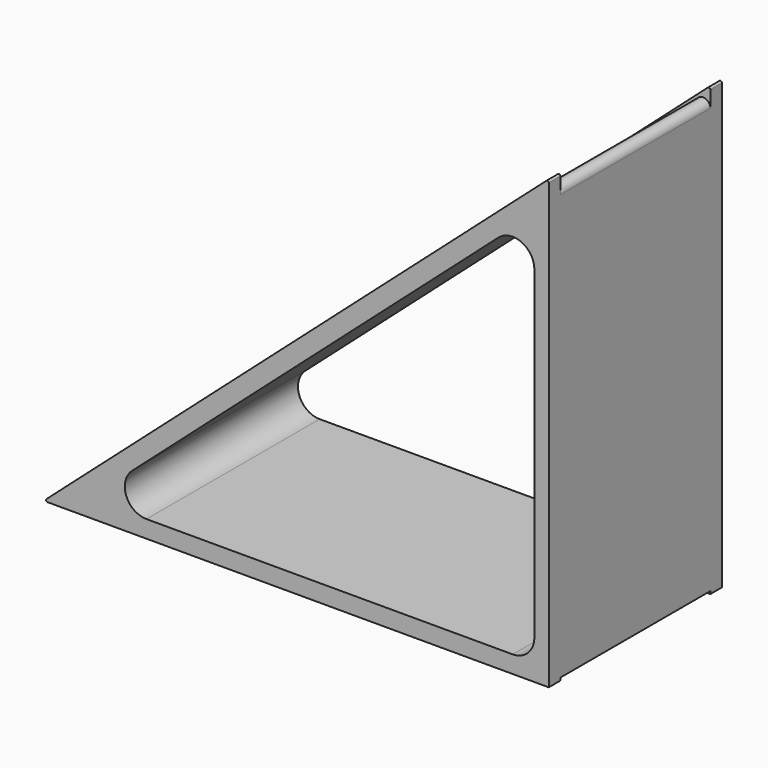
from build123d import *

# Parameters (mm, degrees)
PAD001_DEPTH    = 15
SKETCH003_W     = 93.5093578205
SKETCH003_H     = 26
POCKET_DEPTH    = 0.37
SKETCH004_W     = 69.441960284
SKETCH004_H     = 26
POCKET001_DEPTH = 0.37
FILLET002002_R  = 3
FILLET002003_R  = 0.2
FILLET002004_R  = 1
FILLET002005_R  = 0.2
FILLET002006_R  = 1


with BuildPart() as part:
    # Sketch002 → Pad001 (new body, symmetric)
    with BuildSketch(Plane.XZ):
        Polygon((0, 0), (-70, 0), (0, 62), align=None)
        Polygon((-2, 2.4), (-63.6706055037, 2.4), (-2, 57.0225363033), align=None, mode=Mode.SUBTRACT)
    extrude(amount=PAD001_DEPTH, both=True)

    # Sketch003 (on Face2 of Pad001) → Pocket (cut)
    with BuildSketch(Plane(origin=(-30.7731015554, 0, 34.7438243367), x_dir=(-0.7485881802, 0, -0.6630352453), z_dir=(-0.6630352453, 0, 0.7485881802))):
        with Locations((5.6464937019, 0)):
            Rectangle(SKETCH003_W, SKETCH003_H)
    extrude(amount=-POCKET_DEPTH, mode=Mode.SUBTRACT)

    # Sketch004 (on Face1 of Pocket) → Pocket001 (cut)
    with BuildSketch(Plane(origin=(0, 0, 0), x_dir=(1, 0, 0), z_dir=(0, 0, -1))):
        with Locations((-34.720980142, 0)):
            Rectangle(SKETCH004_W, SKETCH004_H)
    extrude(amount=-POCKET001_DEPTH, mode=Mode.SUBTRACT)

    # Fillet002002
    fillet002002_edges = [part.edges().sort_by_distance(p)[0] for p in [
        (-2, 0, 2.4),
        (-2, 0, 57.022536),
        (-63.670606, 0, 2.4),
    ]]
    fillet(fillet002002_edges, radius=FILLET002002_R)

    # Fillet002003
    fillet002003_edges = [part.edges().sort_by_distance(p)[0] for p in [
        (0, 14, 62),
        (0, -14, 62),
    ]]
    fillet(fillet002003_edges, radius=FILLET002003_R)

    # Fillet002004
    fillet002004_edges = [part.edges().sort_by_distance(p)[0] for p in [
        (0, 0, 61.505736),
    ]]
    fillet(fillet002004_edges, radius=FILLET002004_R)

    # Fillet002005
    fillet002005_edges = [part.edges().sort_by_distance(p)[0] for p in [
        (-70, -14, 0),
        (-70, 14, 0),
    ]]
    fillet(fillet002005_edges, radius=FILLET002005_R)

    # Fillet002006
    fillet002006_edges = [part.edges().sort_by_distance(p)[0] for p in [
        (-69.024218, 0, 0.37),
    ]]
    fillet(fillet002006_edges, radius=FILLET002006_R)


solid = part.part
